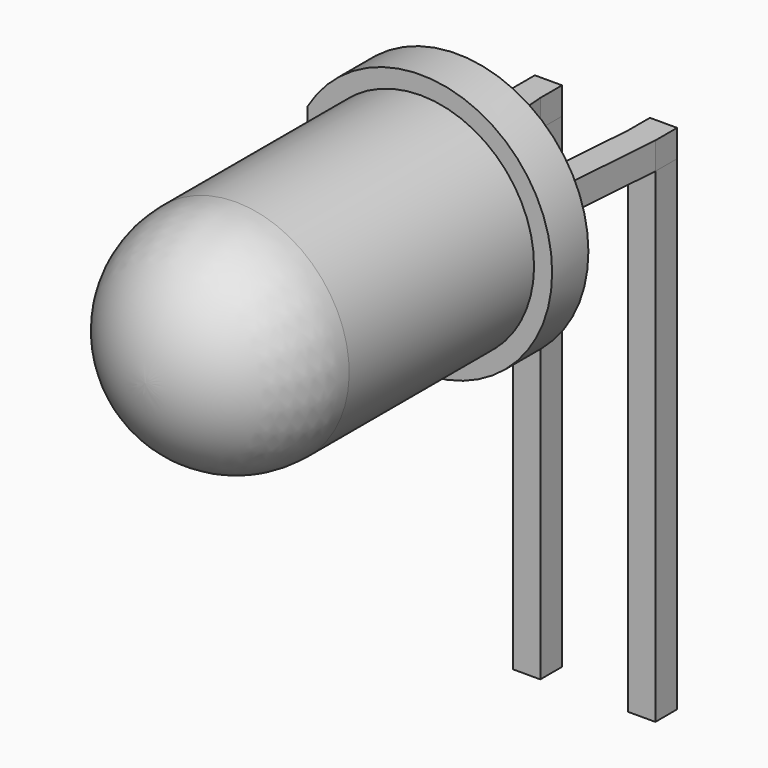
from build123d import *

# Parameters (mm, degrees)
SKETCH_W       = 0.6
SKETCH_H       = 0.6
PAD_DEPTH      = 8.7
PAD_DEPTH_BACK = 2
PAD001_DEPTH   = 0.6
SKETCH002_W    = 2.54
SKETCH002_H    = 0.6
PAD002_DEPTH   = 1
SKETCH004_R    = 2.9
SKETCH004_R_2  = 2.5
PAD003_DEPTH   = 1
SKETCH006_W    = 0.4
SKETCH006_H    = 5.8
POCKET_DEPTH   = 1.001


with BuildPart() as pad:
    # Sketch → Pad (new body, two sides)
    with BuildSketch(Plane.XY) as pad_sk:
        Rectangle(SKETCH_W, SKETCH_H)
        with Locations((2.54, 0)):
            Rectangle(SKETCH_W, SKETCH_H)
    extrude(amount=PAD_DEPTH)
    extrude(pad_sk.sketch, amount=-PAD_DEPTH_BACK)


with BuildPart() as pad001:
    # Sketch001 → Pad001 (new body)
    with BuildSketch(Plane.XY.offset(8.7)):
        Polygon((0.3, 0.3), (-0.3, 0.3), (-0.3, -0.3), (0, -4.31), (0.6, -4.31), (0.3, -0.3), align=None)
        Polygon((2.84, 0.3), (2.24, 0.3), (2.24, -0.3), (1.94, -4.31), (2.54, -4.31), (2.84, -0.3), align=None)
    extrude(amount=PAD001_DEPTH)


with BuildPart() as pad002:
    # Sketch002 → Pad002 (new body)
    with BuildSketch(Plane.XZ.offset(4.31)):
        with Locations((1.27, 9)):
            Rectangle(SKETCH002_W, SKETCH002_H)
    extrude(amount=PAD002_DEPTH)


with BuildPart() as revolution:
    # Sketch003 → Revolution (revolve)
    with BuildSketch(Plane.YZ.offset(1.27)):
        with BuildLine():
            Line((-3.81, 9), (-12.41, 9))
            ThreePointArc((-9.91, 11.5), (-11.677767, 10.767767), (-12.41, 9))
            Line((-3.81, 11.5), (-9.91, 11.5))
            Line((-3.81, 9), (-3.81, 11.5))
        make_face()
    revolve(axis=Axis((1.27, -5.810397, 9), (0, -1, 0)))


with BuildPart() as revolution001:
    # Sketch005 → Revolution001 (revolve)
    with BuildSketch(Plane.YZ.offset(1.27)):
        Polygon((-5.01, 9), (-5.51, 9), (-5.51, 9.5), align=None)
    revolve(axis=Axis((1.27, -3.977201, 9), (0, -1, 0)))


with BuildPart() as pocket:
    # Sketch004 → Pad003 (new body)
    with BuildSketch(Plane.XZ.offset(3.81)):
        with Locations((1.27, 9)):
            Circle(SKETCH004_R)
        with Locations((1.27, 9)):
            Circle(SKETCH004_R_2, mode=Mode.SUBTRACT)
    extrude(amount=PAD003_DEPTH)

    # Sketch006 → Pocket (cut, through all)
    with BuildSketch(Plane.XZ.offset(4.81)):
        with Locations((-1.43, 9)):
            Rectangle(SKETCH006_W, SKETCH006_H)
    extrude(amount=-POCKET_DEPTH, mode=Mode.SUBTRACT)


solid = Compound([pad.part, pad001.part, pad002.part, revolution.part, revolution001.part, pocket.part])
